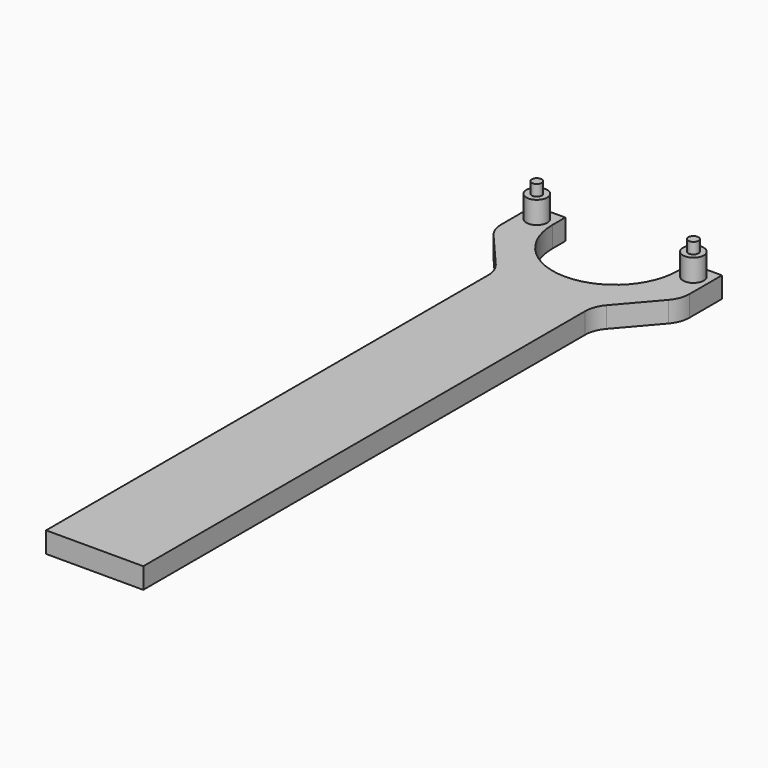
from build123d import *

# Parameters (mm, degrees)
F0_R     = 2.38125
F0_R_2   = 1.143
F1_DEPTH = 4.7625
F2_R     = 6.35
F3_DEPTH = 7.62
F4_DEPTH = 5.08


with BuildPart() as f1:
    # F0 (on Top) → F1 (new body)
    with BuildSketch(Plane.XY):
        with BuildLine():
            Line((21.5265, 64.595826), (21.5265, 76.2))
            Line((21.5265, 76.2), (14.2875, 76.2))
            Line((14.2875, 76.2), (14.2875, 72.5805))
            ThreePointArc((14.2875, 72.5805), (0, 58.293), (-14.2875, 72.5805))
            Line((-14.2875, 72.5805), (-14.2875, 76.2))
            Line((-14.2875, 76.2), (-21.5265, 76.2))
            Line((-21.5265, 76.2), (-21.5265, 64.595826))
            Line((-21.5265, 64.595826), (-11.1125, 52.489269))
            Line((-11.1125, 52.489269), (-11.1125, -76.2))
            Line((-11.1125, -76.2), (11.1125, -76.2))
            Line((11.1125, -76.2), (11.1125, 52.489269))
            Line((11.1125, 52.489269), (21.5265, 64.595826))
        make_face()
        with Locations((-17.907, 72.5805)):
            Circle(F0_R, mode=Mode.SUBTRACT)
        with Locations((17.907, 72.5805)):
            Circle(F0_R, mode=Mode.SUBTRACT)
        with Locations((-17.907, 72.5805)):
            Circle(F0_R)
        with Locations((-17.907, 72.5805)):
            Circle(F0_R_2, mode=Mode.SUBTRACT)
        with Locations((17.907, 72.5805)):
            Circle(F0_R)
        with Locations((17.907, 72.5805)):
            Circle(F0_R_2, mode=Mode.SUBTRACT)
        with Locations((-17.907, 72.5805)):
            Circle(F0_R_2)
        with Locations((17.907, 72.5805)):
            Circle(F0_R_2)
    extrude(amount=-F1_DEPTH)

    # F2
    f2_edges = [f1.edges().sort_by_distance(p)[0] for p in [
        (21.5265, 64.595826, -2.38125),
        (11.1125, 52.489269, -2.38125),
        (-21.5265, 64.595826, -2.38125),
        (-11.1125, 52.489269, -2.38125),
    ]]
    fillet(f2_edges, radius=F2_R)

    # F0 (on Top) → F3 (join)
    with BuildSketch(Plane.XY):
        with Locations((17.907, 72.5805)):
            Circle(F0_R_2)
        with Locations((-17.907, 72.5805)):
            Circle(F0_R_2)
    extrude(amount=F3_DEPTH)

    # F0 (on Top) → F4 (join)
    with BuildSketch(Plane.XY):
        with Locations((-17.907, 72.5805)):
            Circle(F0_R)
        with Locations((-17.907, 72.5805)):
            Circle(F0_R_2, mode=Mode.SUBTRACT)
        with Locations((17.907, 72.5805)):
            Circle(F0_R)
        with Locations((17.907, 72.5805)):
            Circle(F0_R_2, mode=Mode.SUBTRACT)
    extrude(amount=F4_DEPTH)


solid = f1.part
